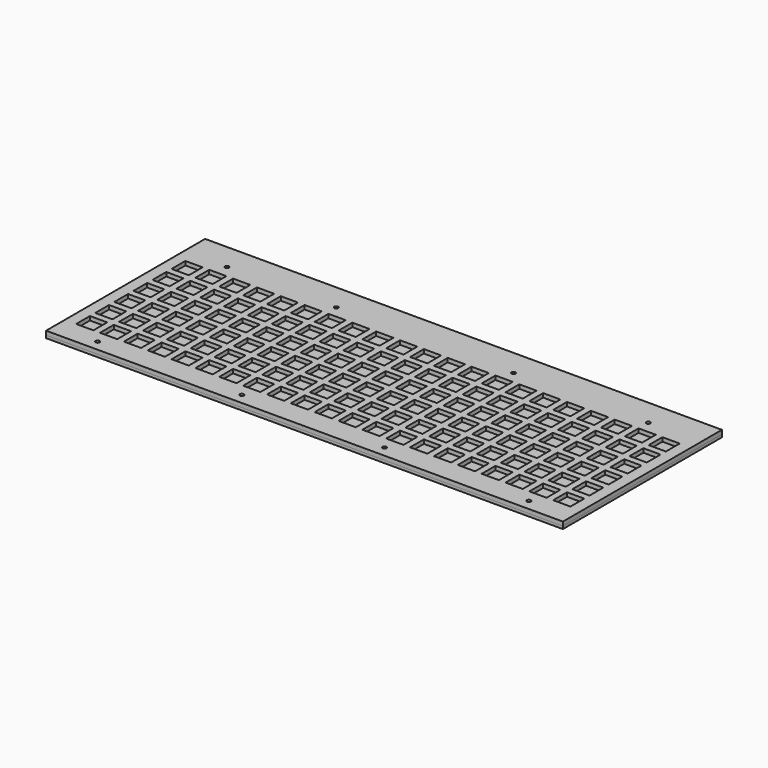
from build123d import *

# Parameters (mm, degrees)
F0_W     = 390
F0_H     = 150
F0_R     = 1.5
F0_W_2   = 13
F0_H_2   = 13
F1_DEPTH = 3
F2_W     = 390
F2_H     = 150
F2_R     = 1.5
F3_DEPTH = 2


with BuildPart() as f1:
    # F0 (on Top) → F1 (new body)
    with BuildSketch(Plane.XY):
        with Locations((195, -75)):
            Rectangle(F0_W, F0_H)
        with Locations((32.44184, -141.899839)):
            Circle(F0_R, mode=Mode.SUBTRACT)
        with Locations((15, -125.751842)):
            Rectangle(F0_W_2, F0_H_2, mode=Mode.SUBTRACT)
        with Locations((33, -125.751842)):
            Rectangle(F0_W_2, F0_H_2, mode=Mode.SUBTRACT)
        with Locations((51, -125.751842)):
            Rectangle(F0_W_2, F0_H_2, mode=Mode.SUBTRACT)
        with Locations((69, -125.751842)):
            Rectangle(F0_W_2, F0_H_2, mode=Mode.SUBTRACT)
        with Locations((87, -125.751842)):
            Rectangle(F0_W_2, F0_H_2, mode=Mode.SUBTRACT)
        with Locations((141.269222, -141.899839)):
            Circle(F0_R, mode=Mode.SUBTRACT)
        with Locations((105, -125.751842)):
            Rectangle(F0_W_2, F0_H_2, mode=Mode.SUBTRACT)
        with Locations((123, -125.751842)):
            Rectangle(F0_W_2, F0_H_2, mode=Mode.SUBTRACT)
        with Locations((141, -125.751842)):
            Rectangle(F0_W_2, F0_H_2, mode=Mode.SUBTRACT)
        with Locations((159, -125.751842)):
            Rectangle(F0_W_2, F0_H_2, mode=Mode.SUBTRACT)
        with Locations((177, -125.751842)):
            Rectangle(F0_W_2, F0_H_2, mode=Mode.SUBTRACT)
        with Locations((15, -107.751842)):
            Rectangle(F0_W_2, F0_H_2, mode=Mode.SUBTRACT)
        with Locations((33, -107.751842)):
            Rectangle(F0_W_2, F0_H_2, mode=Mode.SUBTRACT)
        with Locations((51, -107.751842)):
            Rectangle(F0_W_2, F0_H_2, mode=Mode.SUBTRACT)
        with Locations((69, -107.751842)):
            Rectangle(F0_W_2, F0_H_2, mode=Mode.SUBTRACT)
        with Locations((87, -107.751842)):
            Rectangle(F0_W_2, F0_H_2, mode=Mode.SUBTRACT)
        with Locations((15, -89.751842)):
            Rectangle(F0_W_2, F0_H_2, mode=Mode.SUBTRACT)
        with Locations((33, -89.751842)):
            Rectangle(F0_W_2, F0_H_2, mode=Mode.SUBTRACT)
        with Locations((51, -89.751842)):
            Rectangle(F0_W_2, F0_H_2, mode=Mode.SUBTRACT)
        with Locations((69, -89.751842)):
            Rectangle(F0_W_2, F0_H_2, mode=Mode.SUBTRACT)
        with Locations((87, -89.751842)):
            Rectangle(F0_W_2, F0_H_2, mode=Mode.SUBTRACT)
        with Locations((105, -107.751842)):
            Rectangle(F0_W_2, F0_H_2, mode=Mode.SUBTRACT)
        with Locations((123, -107.751842)):
            Rectangle(F0_W_2, F0_H_2, mode=Mode.SUBTRACT)
        with Locations((141, -107.751842)):
            Rectangle(F0_W_2, F0_H_2, mode=Mode.SUBTRACT)
        with Locations((159, -107.751842)):
            Rectangle(F0_W_2, F0_H_2, mode=Mode.SUBTRACT)
        with Locations((177, -107.751842)):
            Rectangle(F0_W_2, F0_H_2, mode=Mode.SUBTRACT)
        with Locations((105, -89.751842)):
            Rectangle(F0_W_2, F0_H_2, mode=Mode.SUBTRACT)
        with Locations((123, -89.751842)):
            Rectangle(F0_W_2, F0_H_2, mode=Mode.SUBTRACT)
        with Locations((141, -89.751842)):
            Rectangle(F0_W_2, F0_H_2, mode=Mode.SUBTRACT)
        with Locations((159, -89.751842)):
            Rectangle(F0_W_2, F0_H_2, mode=Mode.SUBTRACT)
        with Locations((177, -89.751842)):
            Rectangle(F0_W_2, F0_H_2, mode=Mode.SUBTRACT)
        with Locations((248.813361, -141.899839)):
            Circle(F0_R, mode=Mode.SUBTRACT)
        with Locations((195, -125.751842)):
            Rectangle(F0_W_2, F0_H_2, mode=Mode.SUBTRACT)
        with Locations((213, -125.751842)):
            Rectangle(F0_W_2, F0_H_2, mode=Mode.SUBTRACT)
        with Locations((231, -125.751842)):
            Rectangle(F0_W_2, F0_H_2, mode=Mode.SUBTRACT)
        with Locations((249, -125.751842)):
            Rectangle(F0_W_2, F0_H_2, mode=Mode.SUBTRACT)
        with Locations((267, -125.751842)):
            Rectangle(F0_W_2, F0_H_2, mode=Mode.SUBTRACT)
        with Locations((285, -125.751842)):
            Rectangle(F0_W_2, F0_H_2, mode=Mode.SUBTRACT)
        with Locations((357.838094, -141.899839)):
            Circle(F0_R, mode=Mode.SUBTRACT)
        with Locations((303, -125.751842)):
            Rectangle(F0_W_2, F0_H_2, mode=Mode.SUBTRACT)
        with Locations((321, -125.751842)):
            Rectangle(F0_W_2, F0_H_2, mode=Mode.SUBTRACT)
        with Locations((339, -125.751842)):
            Rectangle(F0_W_2, F0_H_2, mode=Mode.SUBTRACT)
        with Locations((357, -125.751842)):
            Rectangle(F0_W_2, F0_H_2, mode=Mode.SUBTRACT)
        with Locations((375, -125.751842)):
            Rectangle(F0_W_2, F0_H_2, mode=Mode.SUBTRACT)
        with Locations((195, -107.751842)):
            Rectangle(F0_W_2, F0_H_2, mode=Mode.SUBTRACT)
        with Locations((213, -107.751842)):
            Rectangle(F0_W_2, F0_H_2, mode=Mode.SUBTRACT)
        with Locations((231, -107.751842)):
            Rectangle(F0_W_2, F0_H_2, mode=Mode.SUBTRACT)
        with Locations((249, -107.751842)):
            Rectangle(F0_W_2, F0_H_2, mode=Mode.SUBTRACT)
        with Locations((267, -107.751842)):
            Rectangle(F0_W_2, F0_H_2, mode=Mode.SUBTRACT)
        with Locations((285, -107.751842)):
            Rectangle(F0_W_2, F0_H_2, mode=Mode.SUBTRACT)
        with Locations((195, -89.751842)):
            Rectangle(F0_W_2, F0_H_2, mode=Mode.SUBTRACT)
        with Locations((213, -89.751842)):
            Rectangle(F0_W_2, F0_H_2, mode=Mode.SUBTRACT)
        with Locations((231, -89.751842)):
            Rectangle(F0_W_2, F0_H_2, mode=Mode.SUBTRACT)
        with Locations((249, -89.751842)):
            Rectangle(F0_W_2, F0_H_2, mode=Mode.SUBTRACT)
        with Locations((267, -89.751842)):
            Rectangle(F0_W_2, F0_H_2, mode=Mode.SUBTRACT)
        with Locations((285, -89.751842)):
            Rectangle(F0_W_2, F0_H_2, mode=Mode.SUBTRACT)
        with Locations((303, -107.751842)):
            Rectangle(F0_W_2, F0_H_2, mode=Mode.SUBTRACT)
        with Locations((321, -107.751842)):
            Rectangle(F0_W_2, F0_H_2, mode=Mode.SUBTRACT)
        with Locations((339, -107.751842)):
            Rectangle(F0_W_2, F0_H_2, mode=Mode.SUBTRACT)
        with Locations((357, -107.751842)):
            Rectangle(F0_W_2, F0_H_2, mode=Mode.SUBTRACT)
        with Locations((375, -107.751842)):
            Rectangle(F0_W_2, F0_H_2, mode=Mode.SUBTRACT)
        with Locations((303, -89.751842)):
            Rectangle(F0_W_2, F0_H_2, mode=Mode.SUBTRACT)
        with Locations((321, -89.751842)):
            Rectangle(F0_W_2, F0_H_2, mode=Mode.SUBTRACT)
        with Locations((339, -89.751842)):
            Rectangle(F0_W_2, F0_H_2, mode=Mode.SUBTRACT)
        with Locations((357, -89.751842)):
            Rectangle(F0_W_2, F0_H_2, mode=Mode.SUBTRACT)
        with Locations((375, -89.751842)):
            Rectangle(F0_W_2, F0_H_2, mode=Mode.SUBTRACT)
        with Locations((15, -71.751842)):
            Rectangle(F0_W_2, F0_H_2, mode=Mode.SUBTRACT)
        with Locations((33, -71.751842)):
            Rectangle(F0_W_2, F0_H_2, mode=Mode.SUBTRACT)
        with Locations((51, -71.751842)):
            Rectangle(F0_W_2, F0_H_2, mode=Mode.SUBTRACT)
        with Locations((69, -71.751842)):
            Rectangle(F0_W_2, F0_H_2, mode=Mode.SUBTRACT)
        with Locations((87, -71.751842)):
            Rectangle(F0_W_2, F0_H_2, mode=Mode.SUBTRACT)
        with Locations((15, -53.751842)):
            Rectangle(F0_W_2, F0_H_2, mode=Mode.SUBTRACT)
        with Locations((33, -53.751842)):
            Rectangle(F0_W_2, F0_H_2, mode=Mode.SUBTRACT)
        with Locations((51, -53.751842)):
            Rectangle(F0_W_2, F0_H_2, mode=Mode.SUBTRACT)
        with Locations((69, -53.751842)):
            Rectangle(F0_W_2, F0_H_2, mode=Mode.SUBTRACT)
        with Locations((87, -53.751842)):
            Rectangle(F0_W_2, F0_H_2, mode=Mode.SUBTRACT)
        with Locations((105, -71.751842)):
            Rectangle(F0_W_2, F0_H_2, mode=Mode.SUBTRACT)
        with Locations((123, -71.751842)):
            Rectangle(F0_W_2, F0_H_2, mode=Mode.SUBTRACT)
        with Locations((141, -71.751842)):
            Rectangle(F0_W_2, F0_H_2, mode=Mode.SUBTRACT)
        with Locations((159, -71.751842)):
            Rectangle(F0_W_2, F0_H_2, mode=Mode.SUBTRACT)
        with Locations((177, -71.751842)):
            Rectangle(F0_W_2, F0_H_2, mode=Mode.SUBTRACT)
        with Locations((105, -53.751842)):
            Rectangle(F0_W_2, F0_H_2, mode=Mode.SUBTRACT)
        with Locations((123, -53.751842)):
            Rectangle(F0_W_2, F0_H_2, mode=Mode.SUBTRACT)
        with Locations((141, -53.751842)):
            Rectangle(F0_W_2, F0_H_2, mode=Mode.SUBTRACT)
        with Locations((159, -53.751842)):
            Rectangle(F0_W_2, F0_H_2, mode=Mode.SUBTRACT)
        with Locations((177, -53.751842)):
            Rectangle(F0_W_2, F0_H_2, mode=Mode.SUBTRACT)
        with Locations((15, -35.751842)):
            Rectangle(F0_W_2, F0_H_2, mode=Mode.SUBTRACT)
        with Locations((33, -35.751842)):
            Rectangle(F0_W_2, F0_H_2, mode=Mode.SUBTRACT)
        with Locations((32.44184, -20.007424)):
            Circle(F0_R, mode=Mode.SUBTRACT)
        with Locations((51, -35.751842)):
            Rectangle(F0_W_2, F0_H_2, mode=Mode.SUBTRACT)
        with Locations((69, -35.751842)):
            Rectangle(F0_W_2, F0_H_2, mode=Mode.SUBTRACT)
        with Locations((87, -35.751842)):
            Rectangle(F0_W_2, F0_H_2, mode=Mode.SUBTRACT)
        with Locations((105, -35.751842)):
            Rectangle(F0_W_2, F0_H_2, mode=Mode.SUBTRACT)
        with Locations((123, -35.751842)):
            Rectangle(F0_W_2, F0_H_2, mode=Mode.SUBTRACT)
        with Locations((141, -35.751842)):
            Rectangle(F0_W_2, F0_H_2, mode=Mode.SUBTRACT)
        with Locations((115, -20.007424)):
            Circle(F0_R, mode=Mode.SUBTRACT)
        with Locations((159, -35.751842)):
            Rectangle(F0_W_2, F0_H_2, mode=Mode.SUBTRACT)
        with Locations((177, -35.751842)):
            Rectangle(F0_W_2, F0_H_2, mode=Mode.SUBTRACT)
        with Locations((195, -71.751842)):
            Rectangle(F0_W_2, F0_H_2, mode=Mode.SUBTRACT)
        with Locations((213, -71.751842)):
            Rectangle(F0_W_2, F0_H_2, mode=Mode.SUBTRACT)
        with Locations((231, -71.751842)):
            Rectangle(F0_W_2, F0_H_2, mode=Mode.SUBTRACT)
        with Locations((249, -71.751842)):
            Rectangle(F0_W_2, F0_H_2, mode=Mode.SUBTRACT)
        with Locations((267, -71.751842)):
            Rectangle(F0_W_2, F0_H_2, mode=Mode.SUBTRACT)
        with Locations((285, -71.751842)):
            Rectangle(F0_W_2, F0_H_2, mode=Mode.SUBTRACT)
        with Locations((195, -53.751842)):
            Rectangle(F0_W_2, F0_H_2, mode=Mode.SUBTRACT)
        with Locations((213, -53.751842)):
            Rectangle(F0_W_2, F0_H_2, mode=Mode.SUBTRACT)
        with Locations((231, -53.751842)):
            Rectangle(F0_W_2, F0_H_2, mode=Mode.SUBTRACT)
        with Locations((249, -53.751842)):
            Rectangle(F0_W_2, F0_H_2, mode=Mode.SUBTRACT)
        with Locations((267, -53.751842)):
            Rectangle(F0_W_2, F0_H_2, mode=Mode.SUBTRACT)
        with Locations((285, -53.751842)):
            Rectangle(F0_W_2, F0_H_2, mode=Mode.SUBTRACT)
        with Locations((303, -71.751842)):
            Rectangle(F0_W_2, F0_H_2, mode=Mode.SUBTRACT)
        with Locations((321, -71.751842)):
            Rectangle(F0_W_2, F0_H_2, mode=Mode.SUBTRACT)
        with Locations((339, -71.751842)):
            Rectangle(F0_W_2, F0_H_2, mode=Mode.SUBTRACT)
        with Locations((357, -71.751842)):
            Rectangle(F0_W_2, F0_H_2, mode=Mode.SUBTRACT)
        with Locations((375, -71.751842)):
            Rectangle(F0_W_2, F0_H_2, mode=Mode.SUBTRACT)
        with Locations((303, -53.751842)):
            Rectangle(F0_W_2, F0_H_2, mode=Mode.SUBTRACT)
        with Locations((321, -53.751842)):
            Rectangle(F0_W_2, F0_H_2, mode=Mode.SUBTRACT)
        with Locations((339, -53.751842)):
            Rectangle(F0_W_2, F0_H_2, mode=Mode.SUBTRACT)
        with Locations((357, -53.751842)):
            Rectangle(F0_W_2, F0_H_2, mode=Mode.SUBTRACT)
        with Locations((375, -53.751842)):
            Rectangle(F0_W_2, F0_H_2, mode=Mode.SUBTRACT)
        with Locations((195, -35.751842)):
            Rectangle(F0_W_2, F0_H_2, mode=Mode.SUBTRACT)
        with Locations((213, -35.751842)):
            Rectangle(F0_W_2, F0_H_2, mode=Mode.SUBTRACT)
        with Locations((231, -35.751842)):
            Rectangle(F0_W_2, F0_H_2, mode=Mode.SUBTRACT)
        with Locations((249, -35.751842)):
            Rectangle(F0_W_2, F0_H_2, mode=Mode.SUBTRACT)
        with Locations((267, -35.751842)):
            Rectangle(F0_W_2, F0_H_2, mode=Mode.SUBTRACT)
        with Locations((285, -35.751842)):
            Rectangle(F0_W_2, F0_H_2, mode=Mode.SUBTRACT)
        with Locations((248.813361, -20.007424)):
            Circle(F0_R, mode=Mode.SUBTRACT)
        with Locations((303, -35.751842)):
            Rectangle(F0_W_2, F0_H_2, mode=Mode.SUBTRACT)
        with Locations((321, -35.751842)):
            Rectangle(F0_W_2, F0_H_2, mode=Mode.SUBTRACT)
        with Locations((339, -35.751842)):
            Rectangle(F0_W_2, F0_H_2, mode=Mode.SUBTRACT)
        with Locations((357, -35.751842)):
            Rectangle(F0_W_2, F0_H_2, mode=Mode.SUBTRACT)
        with Locations((375, -35.751842)):
            Rectangle(F0_W_2, F0_H_2, mode=Mode.SUBTRACT)
        with Locations((350.5, -20.007424)):
            Circle(F0_R, mode=Mode.SUBTRACT)
    extrude(amount=F1_DEPTH)


with BuildPart() as f3:
    # F2 (on Top) → F3 (new body)
    with BuildSketch(Plane.XY):
        with Locations((195, -75)):
            Rectangle(F2_W, F2_H)
        with Locations((32.441826, -141.899837)):
            Circle(F2_R, mode=Mode.SUBTRACT)
        with Locations((141.269222, -141.899914)):
            Circle(F2_R, mode=Mode.SUBTRACT)
        with Locations((248.813261, -141.899885)):
            Circle(F2_R, mode=Mode.SUBTRACT)
        with Locations((357.838035, -141.899854)):
            Circle(F2_R, mode=Mode.SUBTRACT)
        with Locations((32.44191, -20.007376)):
            Circle(F2_R, mode=Mode.SUBTRACT)
        with Locations((115.000114, -20.007426)):
            Circle(F2_R, mode=Mode.SUBTRACT)
        with Locations((248.813346, -20.007424)):
            Circle(F2_R, mode=Mode.SUBTRACT)
        with Locations((350.499988, -20.007383)):
            Circle(F2_R, mode=Mode.SUBTRACT)
    extrude(amount=-F3_DEPTH)


solid = Compound([f1.part, f3.part])
